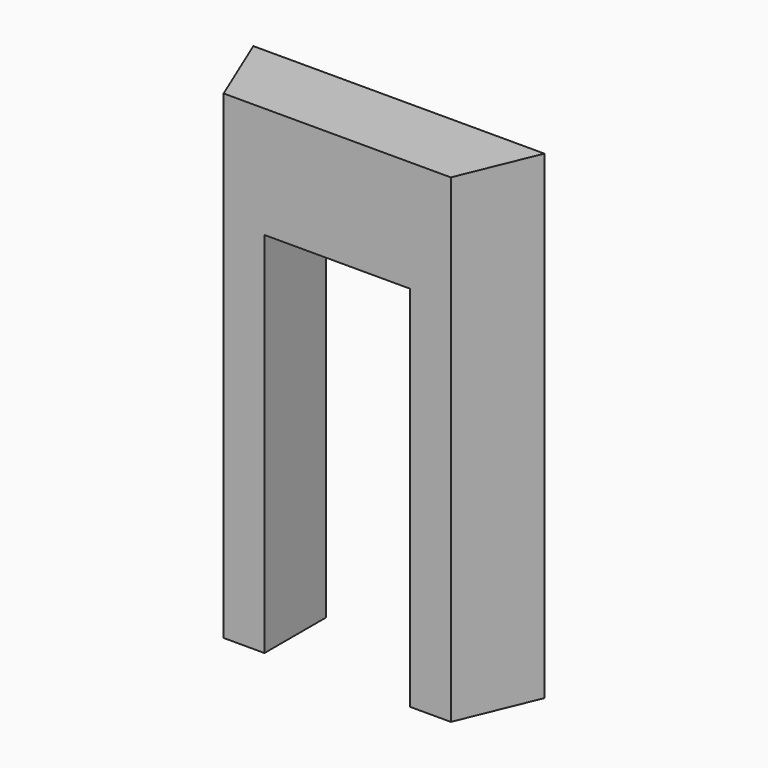
from build123d import *

# Parameters (mm, degrees)
F1_DEPTH = 2800
F2_W     = 850
F2_H     = 2150
F3_DEPTH = 450.001


with BuildPart() as f1:
    # F0 (on Top) → F1 (new body)
    with BuildSketch(Plane.XY):
        Polygon((-186.396103, 450), (0, 0), (1327.207794, 0), (1513.603897, 450), align=None)
    extrude(amount=F1_DEPTH)

    # F2 (on face) → F3 (cut, through all)
    with BuildSketch(Plane.XZ):
        with Locations((663.603897, 1075)):
            Rectangle(F2_W, F2_H)
    extrude(amount=-F3_DEPTH, mode=Mode.SUBTRACT)


solid = f1.part
